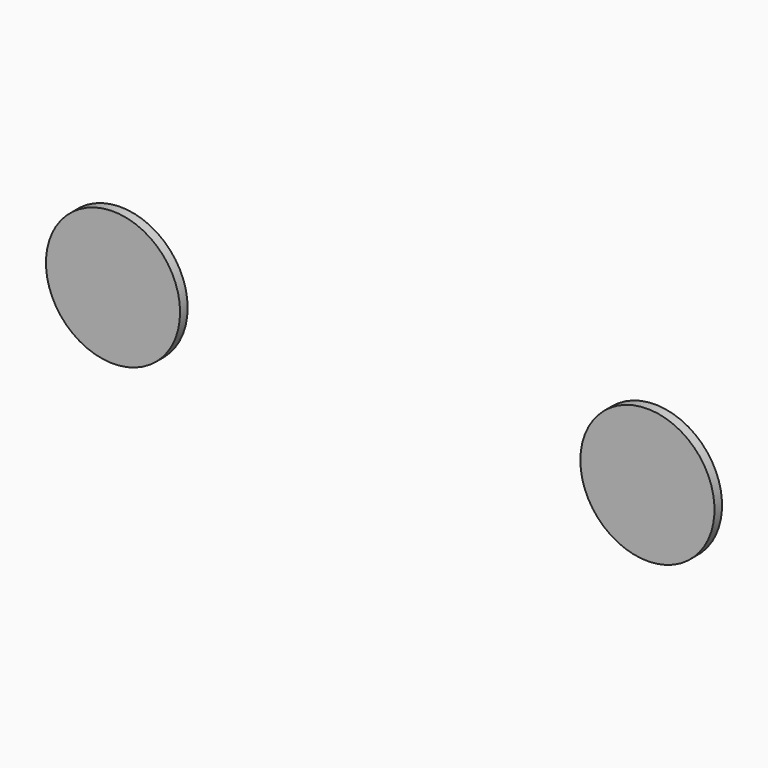
from build123d import *

# Parameters (mm, degrees)
F0_R     = 4
F1_DEPTH = 4.064
F4_R     = 11
F5_DEPTH = 1.5494


with BuildPart() as f1:
    # F0 (on Front) → F1 (new body)
    with BuildSketch(Plane.XZ):
        with Locations((-43.850172, 37.326915)):
            Circle(F0_R)
    extrude(amount=F1_DEPTH)

    # F4 (on offset) → F5 (join)
    with BuildSketch(Plane.XZ.offset(3.048)):
        with Locations((-43.829556, 37.367302)):
            Circle(F4_R)
    extrude(amount=F5_DEPTH)


with BuildPart() as f2_1:
    # F2: instance of F1
    add(f1.part.mirror(Plane.YZ))

    # F6: F1 across plane
    add(f1.part.mirror(Plane.YZ))


solid = Compound([f1.part, f2_1.part])
